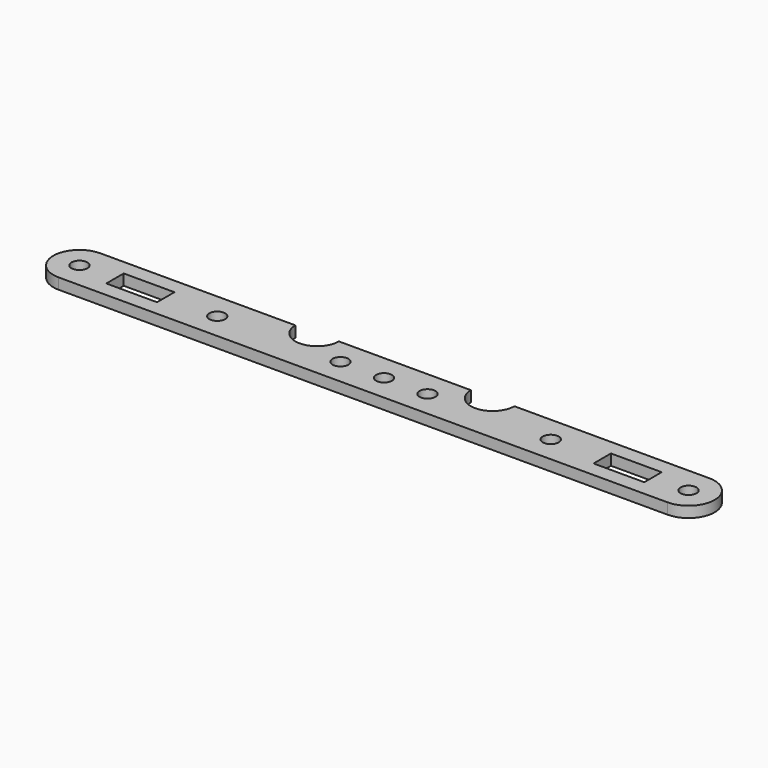
from build123d import *

# Parameters (mm, degrees)
F1_DEPTH = 1.5
F2_R     = 1.1
F3_DEPTH = 1.501
F4_W     = 7
F4_H     = 3
F4_R     = 3
F5_DEPTH = 1.501


with BuildPart() as f1:
    # F0 (on Top) → F1 (new body)
    with BuildSketch(Plane.XY):
        with BuildLine():
            Line((42, 3.6), (-42, 3.6))
            ThreePointArc((-42, 3.6), (-45.6, 0), (-42, -3.6))
            Line((-42, -3.6), (42, -3.6))
            ThreePointArc((42, -3.6), (45.6, 0), (42, 3.6))
        make_face()
    extrude(amount=F1_DEPTH)

    # F2 (on face) → F3 (cut, through all)
    with BuildSketch(Plane.XY.offset(1.5)):
        with Locations((-42, 0)):
            Circle(F2_R)
        with Locations((42, 0)):
            Circle(F2_R)
        Circle(F2_R)
        with Locations((-36, 0)):
            Circle(F2_R)
        with Locations((36, 0)):
            Circle(F2_R)
        with Locations((-23, 0)):
            Circle(F2_R)
        with Locations((23, 0)):
            Circle(F2_R)
        with Locations((-6, 0)):
            Circle(F2_R)
        with Locations((6, 0)):
            Circle(F2_R)
    extrude(amount=-F3_DEPTH, mode=Mode.SUBTRACT)

    # F4 (on face) → F5 (cut, through all)
    with BuildSketch(Plane.XY.offset(1.5)):
        with Locations((-33.6, 0)):
            Rectangle(F4_W, F4_H)
        with Locations((-12.1, 3.6)):
            Circle(F4_R)
        with Locations((33.6, 0)):
            Rectangle(F4_W, F4_H)
        with Locations((12.1, 3.6)):
            Circle(F4_R)
    extrude(amount=-F5_DEPTH, mode=Mode.SUBTRACT)


solid = f1.part
